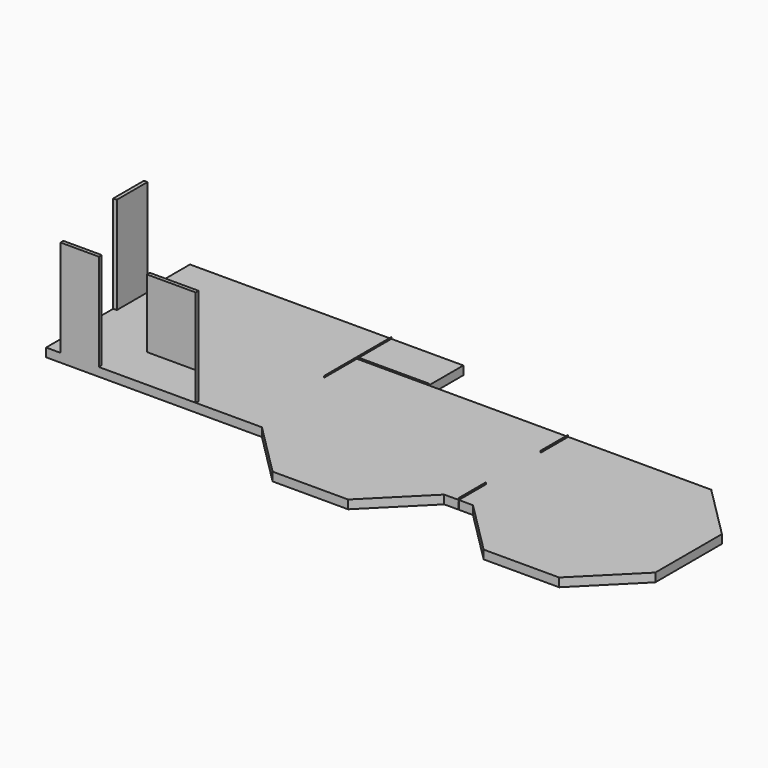
from build123d import *

# Parameters (mm, degrees)
F0_W          = 1524
F0_H          = 5
F1_DEPTH      = 60.96
F0_W_2        = 5
F0_H_2        = 723.9
F0_W_3        = 5.000104126
F0_W_4        = 2286
F0_H_3        = 914.4
F0_W_5        = 1828.8
F0_H_4        = 487.68
F0_W_6        = 1310.64
F0_H_5        = 457.2
F0_W_7        = 990.6
F0_H_6        = 609.6
F0_W_8        = 914.4
F0_H_7        = 1524
F0_W_9        = 1584.96
F0_H_8        = 2157.984
F0_W_10       = 3352.8
F0_H_9        = 909.4
F0_H_10       = 280.416
F2_DEPTH      = 30.48
F4_W          = 76.2
F4_H          = 812.8
F4_W_2        = 812.8
F4_H_2        = 76.2
F4_W_3        = 1036.32
F5_DEPTH      = 2057.4
F6_W          = 1033.78
F6_H          = 609.6
F7_DEPTH      = 1207.3007187053
F8_DEPTH      = 152.4
F9_DEPTH      = 152.4
F9_DEPTH_BACK = 30.48


with BuildPart() as f1:
    # F0 (on Top) → F1 (new body)
    with BuildSketch(Plane.XY):
        with Locations((5029.2, 2898.1)):
            Rectangle(F0_W, F0_H)
        Polygon((4262.2, 3810), (4262.2, 2029.968), (4267.2, 2029.968), (4267.2, 2895.6), (4267.2, 2900.6), (4267.2, 3810), align=None)
    extrude(amount=F1_DEPTH)


with BuildPart() as f1b:
    # F0 (on Top) → F1, piece 2 (new body)
    with BuildSketch(Plane.XY):
        with Locations((8736.116, 2533.65)):
            Rectangle(F0_W_2, F0_H_2)
        with Locations((8741.116052063, 2533.65)):
            Rectangle(F0_W_3, F0_H_2)
    extrude(amount=F1_DEPTH)


with BuildPart() as f1c:
    # F0 (on Top) → F1, piece 3 (new body)
    with BuildSketch(Plane.XY):
        with Locations((8736.116, 361.95)):
            Rectangle(F0_W_2, F0_H_2)
        with Locations((8741.116052063, 361.95)):
            Rectangle(F0_W_3, F0_H_2)
    extrude(amount=F1_DEPTH)


with BuildPart() as f2:
    # F0 (on Top) → F2 (new body)
    with BuildSketch(Plane.XY):
        Polygon((4267.2, 2029.968), (4267.2, 0), (4572, 0), (5703.0997187053, -1131.0997187053), (7302.7162812947, -1131.0997187053), (8433.816, 0), (8733.616, 0), (8733.616, 723.9), (8698.4546220885, 723.9), (8698.4546220885, 2171.7), (8733.616, 2171.7), (8733.616, 2895.6), (7519.416, 2895.6), (5791.2, 2895.6), (4267.2, 2895.6), align=None)
        Polygon((5281.1117777896, 222.5019009471), (4530.6882699943, 90.1819895649), (4398.3683586121, 840.6054973602), (5148.7918664074, 972.9254087424), align=None, mode=Mode.SUBTRACT)
        with Locations((6496.5029158592, -289.0089195251)):
            Rectangle(F0_W_4, F0_H_3, mode=Mode.SUBTRACT)
        with BuildLine():
            ThreePointArc((5519.6326080322, 825.3382080503), (5249.6043507385, 1099.6246337891), (5519.6326080322, 1373.9110595278))
            Line((5519.6326080322, 1373.9110595278), (5519.6326080322, 2072.8167237282))
            Line((5519.6326080322, 2072.8167237282), (7958.0326080322, 2072.8167237282))
            Line((7958.0326080322, 2072.8167237282), (7958.0326080322, 396.4167237282))
            Line((7958.0326080322, 396.4167237282), (5519.6326080322, 396.4167237282))
            Line((5519.6326080322, 396.4167237282), (5519.6326080322, 825.3382080503))
        make_face(mode=Mode.SUBTRACT)
        Polygon((4384.2396736145, 1269.1645622253), (4516.5595849967, 2019.5880700206), (5266.983092792, 1887.2681586384), (5134.6631814098, 1136.8446508431), align=None, mode=Mode.SUBTRACT)
        with Locations((6661.3005584717, 2568.1438237762)):
            Rectangle(F0_W_5, F0_H_4, mode=Mode.SUBTRACT)
        Polygon((9552.432, 2895.6), (8743.616104126, 2895.6), (8743.616104126, 2171.7), (8778.7773779115, 2171.7), (8778.7773779115, 723.9), (8743.616104126, 723.9), (8743.616104126, 0), (9043.416, 0), (10174.5157187053, -1131.0997187053), (11774.1322812947, -1131.0997187053), (12905.232, 0), (12905.232, 1764.5002812947), (11774.1322812947, 2895.6), align=None)
        with Locations((11014.7964245605, -810.0562347412)):
            Rectangle(F0_W_6, F0_H_5, mode=Mode.SUBTRACT)
        with Locations((9298.3338287354, 2534.5547534943)):
            Rectangle(F0_W_7, F0_H_6, mode=Mode.SUBTRACT)
        Polygon((10127.4194717407, 2522.1054672089), (10127.4194717407, 2802.5214672089), (11712.3794717407, 2802.5214672089), (11712.3794717407, 2522.1054672089), (11712.3794717407, 364.1214672089), (10127.4194717407, 364.1214672089), align=None, mode=Mode.SUBTRACT)
        Polygon((0, 2009.85455513), (0, 0), (304.8, 0), (1118.616, 0), (3352.8, 0), (3352.8, 2029.968), (4262.2, 2029.968), (4262.2, 3810), (3352.8, 3810), (3352.8, 3200.4), (0, 3200.4), (0, 2823.67055513), align=None)
        with Locations((2210.8657863617, 1090.4223377705)):
            Rectangle(F0_W_8, F0_H_7, mode=Mode.SUBTRACT)
        Polygon((0, 2009.85455513), (0, 0), (304.8, 0), (1118.616, 0), (3352.8, 0), (3352.8, 2029.968), (4262.2, 2029.968), (4262.2, 3810), (3352.8, 3810), (3352.8, 3200.4), (0, 3200.4), (0, 2823.67055513), align=None)
        with Locations((2210.8657863617, 1090.4223377705)):
            Rectangle(F0_W_8, F0_H_7, mode=Mode.SUBTRACT)
        with BuildLine():
            ThreePointArc((5519.6326080322, 1373.9110595278), (5716.3745411006, 1295.1096373817), (5798.2443507385, 1099.6246337891))
            ThreePointArc((5798.2443507385, 1099.6246337891), (5716.3745411006, 904.1396301965), (5519.6326080322, 825.3382080503))
            Line((5519.6326080322, 825.3382080503), (5519.6326080322, 396.4167237282))
            Line((5519.6326080322, 396.4167237282), (7958.0326080322, 396.4167237282))
            Line((7958.0326080322, 396.4167237282), (7958.0326080322, 2072.8167237282))
            Line((7958.0326080322, 2072.8167237282), (5519.6326080322, 2072.8167237282))
            Line((5519.6326080322, 2072.8167237282), (5519.6326080322, 1373.9110595278))
        make_face()
        with Locations((10919.8994717407, 1443.1134672089)):
            Rectangle(F0_W_9, F0_H_8)
        with Locations((6496.5029158592, -289.0089195251)):
            Rectangle(F0_W_4, F0_H_3)
        with Locations((1676.4, 3505.2)):
            Rectangle(F0_W_10, F0_H_6)
        with Locations((2210.8657863617, 1090.4223377705)):
            Rectangle(F0_W_8, F0_H_7)
        with Locations((5029.2, 3355.3)):
            Rectangle(F0_W, F0_H_9)
        with Locations((6661.3005584717, 2568.1438237762)):
            Rectangle(F0_W_5, F0_H_4)
        with Locations((9298.3338287354, 2534.5547534943)):
            Rectangle(F0_W_7, F0_H_6)
        with Locations((11014.7964245605, -810.0562347412)):
            Rectangle(F0_W_6, F0_H_5)
        Polygon((4398.3683586121, 840.6054973602), (4530.6882699943, 90.1819895649), (5281.1117777896, 222.5019009471), (5148.7918664074, 972.9254087424), align=None)
        Polygon((5266.983092792, 1887.2681586384), (4516.5595849967, 2019.5880700206), (4384.2396736145, 1269.1645622253), (5134.6631814098, 1136.8446508431), align=None)
        with Locations((10919.8994717407, 2662.3134672089)):
            Rectangle(F0_W_9, F0_H_10)
        with BuildLine():
            ThreePointArc((5519.6326080322, 825.3382080503), (5716.3745411006, 904.1396301965), (5798.2443507385, 1099.6246337891))
            ThreePointArc((5798.2443507385, 1099.6246337891), (5716.3745411006, 1295.1096373817), (5519.6326080322, 1373.9110595278))
            Line((5519.6326080322, 1373.9110595278), (5519.6326080322, 825.3382080503))
        make_face()
        Polygon((8738.616, 2171.7), (8733.616, 2171.7), (8698.4546220885, 2171.7), (8698.4546220885, 723.9), (8733.616, 723.9), (8738.616, 723.9), (8743.616104126, 723.9), (8778.7773779115, 723.9), (8778.7773779115, 2171.7), (8743.616104126, 2171.7), align=None)
        with BuildLine():
            Line((5519.6326080322, 825.3382080503), (5519.6326080322, 1373.9110595278))
            ThreePointArc((5519.6326080322, 1373.9110595278), (5249.6043507385, 1099.6246337891), (5519.6326080322, 825.3382080503))
        make_face()
        Polygon((4262.2, 3810), (4262.2, 2029.968), (4267.2, 2029.968), (4267.2, 2895.6), (4267.2, 2900.6), (4267.2, 3810), align=None)
        with Locations((5029.2, 2898.1)):
            Rectangle(F0_W, F0_H)
        with Locations((8741.116052063, 361.95)):
            Rectangle(F0_W_3, F0_H_2)
        with Locations((8741.116052063, 2533.65)):
            Rectangle(F0_W_3, F0_H_2)
        with Locations((8736.116, 361.95)):
            Rectangle(F0_W_2, F0_H_2)
        with Locations((8736.116, 2533.65)):
            Rectangle(F0_W_2, F0_H_2)
    extrude(amount=F2_DEPTH)


with BuildPart() as f1_1:
    add(f1.part)

    # F3: union F1b, F1c, F2
    add(f1b.part)
    add(f1c.part)
    add(f2.part)

    # F4 (on face) → F5 (join)
    with BuildSketch(Plane.XY.offset(30.48)):
        with Locations((38.1, 2184.4)):
            Rectangle(F4_W, F4_H)
        with Locations((711.2, 38.1)):
            Rectangle(F4_W_2, F4_H_2)
        with Locations((2651.76, 38.1)):
            Rectangle(F4_W_3, F4_H_2)
    extrude(amount=F5_DEPTH)

    # F6 (on face) → F7 (cut, through all)
    with BuildSketch(Plane(origin=(0, 76.2, 0), x_dir=(-1, 0, 0), z_dir=(0, 1, 0))):
        with Locations((-2650.49, 335.28)):
            Rectangle(F6_W, F6_H)
    extrude(amount=-F7_DEPTH, mode=Mode.SUBTRACT)

    # F0 (on Top) → F8 (join)
    with BuildSketch(Plane.XY):
        Polygon((0, 2009.85455513), (0, 0), (304.8, 0), (1118.616, 0), (3352.8, 0), (3352.8, 2029.968), (4262.2, 2029.968), (4262.2, 3810), (3352.8, 3810), (3352.8, 3200.4), (0, 3200.4), (0, 2823.67055513), align=None)
        with Locations((2210.8657863617, 1090.4223377705)):
            Rectangle(F0_W_8, F0_H_7, mode=Mode.SUBTRACT)
        with Locations((1676.4, 3505.2)):
            Rectangle(F0_W_10, F0_H_6)
        with Locations((2210.8657863617, 1090.4223377705)):
            Rectangle(F0_W_8, F0_H_7)
        Polygon((4267.2, 2029.968), (4267.2, 0), (4572, 0), (5703.0997187053, -1131.0997187053), (7302.7162812947, -1131.0997187053), (8433.816, 0), (8733.616, 0), (8733.616, 723.9), (8698.4546220885, 723.9), (8698.4546220885, 2171.7), (8733.616, 2171.7), (8733.616, 2895.6), (7519.416, 2895.6), (5791.2, 2895.6), (4267.2, 2895.6), align=None)
        Polygon((5281.1117777896, 222.5019009471), (4530.6882699943, 90.1819895649), (4398.3683586121, 840.6054973602), (5148.7918664074, 972.9254087424), align=None, mode=Mode.SUBTRACT)
        with Locations((6496.5029158592, -289.0089195251)):
            Rectangle(F0_W_4, F0_H_3, mode=Mode.SUBTRACT)
        with BuildLine():
            ThreePointArc((5519.6326080322, 825.3382080503), (5249.6043507385, 1099.6246337891), (5519.6326080322, 1373.9110595278))
            Line((5519.6326080322, 1373.9110595278), (5519.6326080322, 2072.8167237282))
            Line((5519.6326080322, 2072.8167237282), (7958.0326080322, 2072.8167237282))
            Line((7958.0326080322, 2072.8167237282), (7958.0326080322, 396.4167237282))
            Line((7958.0326080322, 396.4167237282), (5519.6326080322, 396.4167237282))
            Line((5519.6326080322, 396.4167237282), (5519.6326080322, 825.3382080503))
        make_face(mode=Mode.SUBTRACT)
        Polygon((4384.2396736145, 1269.1645622253), (4516.5595849967, 2019.5880700206), (5266.983092792, 1887.2681586384), (5134.6631814098, 1136.8446508431), align=None, mode=Mode.SUBTRACT)
        with Locations((6661.3005584717, 2568.1438237762)):
            Rectangle(F0_W_5, F0_H_4, mode=Mode.SUBTRACT)
        Polygon((4398.3683586121, 840.6054973602), (4530.6882699943, 90.1819895649), (5281.1117777896, 222.5019009471), (5148.7918664074, 972.9254087424), align=None)
        Polygon((5266.983092792, 1887.2681586384), (4516.5595849967, 2019.5880700206), (4384.2396736145, 1269.1645622253), (5134.6631814098, 1136.8446508431), align=None)
        with BuildLine():
            ThreePointArc((5519.6326080322, 1373.9110595278), (5716.3745411006, 1295.1096373817), (5798.2443507385, 1099.6246337891))
            ThreePointArc((5798.2443507385, 1099.6246337891), (5716.3745411006, 904.1396301965), (5519.6326080322, 825.3382080503))
            Line((5519.6326080322, 825.3382080503), (5519.6326080322, 396.4167237282))
            Line((5519.6326080322, 396.4167237282), (7958.0326080322, 396.4167237282))
            Line((7958.0326080322, 396.4167237282), (7958.0326080322, 2072.8167237282))
            Line((7958.0326080322, 2072.8167237282), (5519.6326080322, 2072.8167237282))
            Line((5519.6326080322, 2072.8167237282), (5519.6326080322, 1373.9110595278))
        make_face()
        with Locations((6496.5029158592, -289.0089195251)):
            Rectangle(F0_W_4, F0_H_3)
        with Locations((6661.3005584717, 2568.1438237762)):
            Rectangle(F0_W_5, F0_H_4)
        with Locations((5029.2, 3355.3)):
            Rectangle(F0_W, F0_H_9)
        with BuildLine():
            ThreePointArc((5519.6326080322, 825.3382080503), (5716.3745411006, 904.1396301965), (5798.2443507385, 1099.6246337891))
            ThreePointArc((5798.2443507385, 1099.6246337891), (5716.3745411006, 1295.1096373817), (5519.6326080322, 1373.9110595278))
            Line((5519.6326080322, 1373.9110595278), (5519.6326080322, 825.3382080503))
        make_face()
        with BuildLine():
            Line((5519.6326080322, 825.3382080503), (5519.6326080322, 1373.9110595278))
            ThreePointArc((5519.6326080322, 1373.9110595278), (5249.6043507385, 1099.6246337891), (5519.6326080322, 825.3382080503))
        make_face()
        Polygon((9552.432, 2895.6), (8743.616104126, 2895.6), (8743.616104126, 2171.7), (8778.7773779115, 2171.7), (8778.7773779115, 723.9), (8743.616104126, 723.9), (8743.616104126, 0), (9043.416, 0), (10174.5157187053, -1131.0997187053), (11774.1322812947, -1131.0997187053), (12905.232, 0), (12905.232, 1764.5002812947), (11774.1322812947, 2895.6), align=None)
        with Locations((11014.7964245605, -810.0562347412)):
            Rectangle(F0_W_6, F0_H_5, mode=Mode.SUBTRACT)
        with Locations((9298.3338287354, 2534.5547534943)):
            Rectangle(F0_W_7, F0_H_6, mode=Mode.SUBTRACT)
        Polygon((10127.4194717407, 2522.1054672089), (10127.4194717407, 2802.5214672089), (11712.3794717407, 2802.5214672089), (11712.3794717407, 2522.1054672089), (11712.3794717407, 364.1214672089), (10127.4194717407, 364.1214672089), align=None, mode=Mode.SUBTRACT)
        with Locations((10919.8994717407, 1443.1134672089)):
            Rectangle(F0_W_9, F0_H_8)
        with Locations((11014.7964245605, -810.0562347412)):
            Rectangle(F0_W_6, F0_H_5)
        with Locations((10919.8994717407, 2662.3134672089)):
            Rectangle(F0_W_9, F0_H_10)
        with Locations((9298.3338287354, 2534.5547534943)):
            Rectangle(F0_W_7, F0_H_6)
        Polygon((8738.616, 2171.7), (8733.616, 2171.7), (8698.4546220885, 2171.7), (8698.4546220885, 723.9), (8733.616, 723.9), (8738.616, 723.9), (8743.616104126, 723.9), (8778.7773779115, 723.9), (8778.7773779115, 2171.7), (8743.616104126, 2171.7), align=None)
    extrude(amount=-F8_DEPTH)

    # F0 (on Top) → F9 (join, two sides)
    with BuildSketch(Plane.XY) as f9_sk:
        Polygon((3352.8, 2029.968), (3352.8, 0), (4267.2, 0), (4267.2, 2029.968), (4262.2, 2029.968), align=None)
    extrude(amount=-F9_DEPTH)
    extrude(f9_sk.sketch, amount=F9_DEPTH_BACK)


solid = f1_1.part
